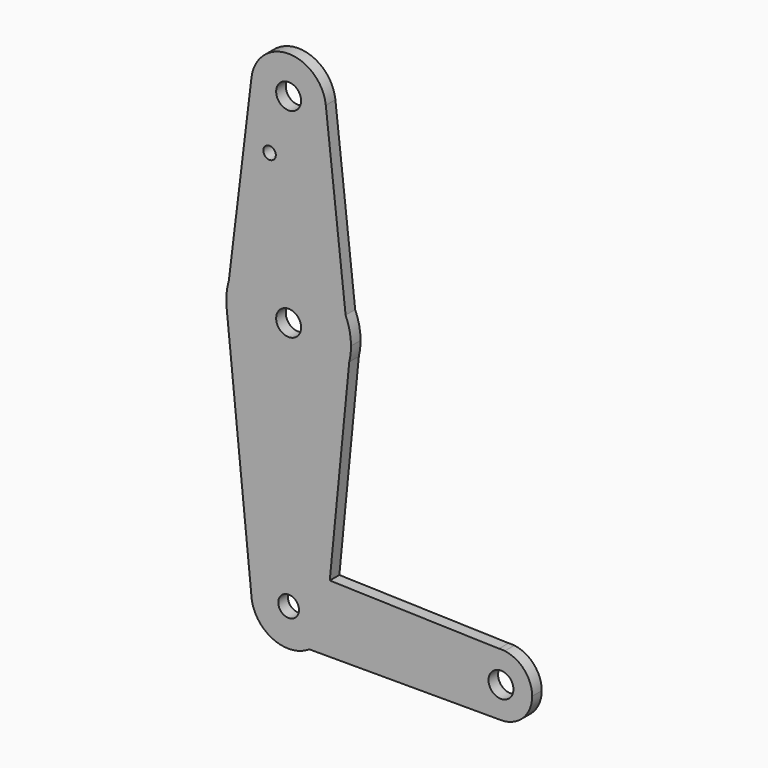
from build123d import *

# Parameters (mm, degrees)
F0_R     = 3.175
F0_R_2   = 2.6335759293
F0_R_3   = 1.5875
F1_DEPTH = 3.048


with BuildPart() as f1:
    # F0 (on Front) → F1 (new body)
    with BuildSketch(Plane.XZ):
        with BuildLine():
            ThreePointArc((56.7990275078, -24.9062731053), (62.4116875835, -22.581433181), (64.7365275078, -16.9687731053))
            ThreePointArc((64.7365275078, -16.9687731053), (62.7426623776, -11.707869116), (57.7627673101, -9.0899970681))
            Line((57.7627673101, -9.0899970681), (56.297547037, -9.0471303724))
            ThreePointArc((56.297547037, -9.0471303724), (48.8654928151, -17.2196386647), (56.7990275078, -24.9062731053))
        make_face()
        with Locations((56.7990275078, -16.9687731053)):
            Circle(F0_R, mode=Mode.SUBTRACT)
        with BuildLine():
            Line((56.297547037, -9.0471303724), (57.7627673101, -9.0899970681))
            ThreePointArc((57.7627673101, -9.0899970681), (57.0311488355, -9.0346678666), (56.297547037, -9.0471303724))
        make_face()
        with BuildLine():
            Line((8.0107625365, -24.9062731053), (56.7990275078, -24.9062731053))
            ThreePointArc((56.7990275078, -24.9062731053), (48.8654928151, -17.2196386647), (56.297547037, -9.0471303724))
            Line((56.297547037, -9.0471303724), (13.2168797338, -7.7867561536))
            Line((13.2168797338, -7.7867561536), (12.2251364065, -17.8985078123))
            ThreePointArc((12.2251364065, -17.8985078123), (10.9082443644, -21.8776629611), (8.0107625365, -24.9062731053))
        make_face()
        with BuildLine():
            ThreePointArc((-6.7763501221, -17.208975122), (-1.652361496, -25.4176415362), (8.0107625365, -24.9062731053))
            ThreePointArc((8.0107625365, -24.9062731053), (10.9082443644, -21.8776629611), (12.2251364065, -17.8985078123))
            ThreePointArc((12.2251364065, -17.8985078123), (12.2592428174, -17.4341964193), (12.2706206818, -16.9687731053))
            ThreePointArc((12.2706206818, -16.9687731053), (9.8779825256, -10.6556883181), (3.9021084446, -7.5142418607))
            ThreePointArc((3.9021084446, -7.5142418607), (-3.6569014681, -9.9165865564), (-6.7763501221, -17.208975122))
        make_face()
        with Locations((2.7456206818, -16.9687731053)):
            Circle(F0_R_2, mode=Mode.SUBTRACT)
        with BuildLine():
            Line((3.9021084446, -7.5142418607), (13.2168797338, -7.7867561536))
            Line((13.2168797338, -7.7867561536), (18.1800145925, 42.8170500531))
            ThreePointArc((18.1800145925, 42.8170500531), (1.6704584717, 30.6926773645), (-13.0491238986, 44.9369657372))
            Line((-13.0491238986, 44.9369657372), (-6.7763501221, -17.208975122))
            ThreePointArc((-6.7763501221, -17.208975122), (-3.6569014681, -9.9165865564), (3.9021084446, -7.5142418607))
        make_face()
        with BuildLine():
            Line((12.2251364065, -17.8985078123), (13.2168797338, -7.7867561536))
            Line((13.2168797338, -7.7867561536), (3.9021084446, -7.5142418607))
            ThreePointArc((3.9021084446, -7.5142418607), (9.8779825256, -10.6556883181), (12.2706206818, -16.9687731053))
            ThreePointArc((12.2706206818, -16.9687731053), (12.2592428174, -17.4341964193), (12.2251364065, -17.8985078123))
        make_face()
        with BuildLine():
            ThreePointArc((-13.0491238986, 44.9369657372), (1.6704584717, 30.6926773645), (18.1800145925, 42.8170500531))
            ThreePointArc((18.1800145925, 42.8170500531), (18.5100843316, 44.6611170492), (18.6206206818, 46.5312268947))
            ThreePointArc((18.6206206818, 46.5312268947), (18.2740618453, 49.830187342), (17.2495164257, 52.9851120231))
            ThreePointArc((17.2495164257, 52.9851120231), (1.7136407932, 62.3726486273), (-12.4730077607, 51.0488560659))
            ThreePointArc((-12.4730077607, 51.0488560659), (-13.0593192868, 48.0210247289), (-13.0491238986, 44.9369657372))
        make_face()
        with Locations((2.7456206818, 46.5312268947)):
            Circle(F0_R, mode=Mode.SUBTRACT)
        with BuildLine():
            Line((-6.7441452961, 98.1497418202), (-12.4730077607, 51.0488560659))
            ThreePointArc((-12.4730077607, 51.0488560659), (1.7136407932, 62.3726486273), (17.2495164257, 52.9851120231))
            Line((17.2495164257, 52.9851120231), (12.2125248757, 98.3816315712))
            ThreePointArc((12.2125248757, 98.3816315712), (12.2560856402, 97.8572319106), (12.2706206818, 97.3312268947))
            ThreePointArc((12.2706206818, 97.3312268947), (2.3359842212, 87.8150394769), (-6.7441452961, 98.1497418202))
        make_face()
        with Locations((-2.1043515299, 83.0673798919)):
            Circle(F0_R_3, mode=Mode.SUBTRACT)
        with BuildLine():
            ThreePointArc((12.2125248757, 98.3816315712), (2.6291136887, 106.8555143284), (-6.7441452961, 98.1497418202))
            ThreePointArc((-6.7441452961, 98.1497418202), (2.3359842212, 87.8150394769), (12.2706206818, 97.3312268947))
            ThreePointArc((12.2706206818, 97.3312268947), (12.2560856402, 97.8572319106), (12.2125248757, 98.3816315712))
        make_face()
        with Locations((2.7456206818, 97.3312268947)):
            Circle(F0_R, mode=Mode.SUBTRACT)
    extrude(amount=F1_DEPTH)


solid = f1.part
